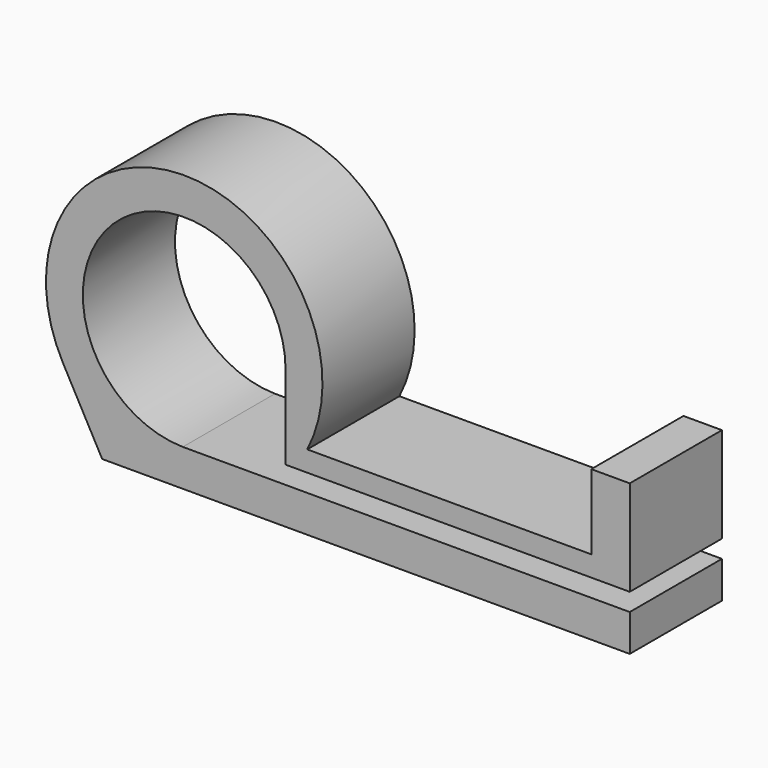
from build123d import *

# Parameters (mm, degrees)
F1_DEPTH = 25


with BuildPart() as f1:
    # F0 (on Front) → F1 (new body)
    with BuildSketch(Plane.XZ):
        with BuildLine():
            Line((51.948939, 20.420613), (-9.68959, 20.420613))
            ThreePointArc((-9.68959, 20.420613), (-36.774845, 64.108047), (-62.712273, 19.729531))
            Line((-62.712273, 19.729531), (-54.180921, 4.110595))
            Line((-54.180921, 4.110595), (60.295311, 4.110595))
            Line((60.295311, 4.110595), (60.295311, 12.112691))
            Line((60.295311, 12.112691), (-36.080195, 12.112691))
            ThreePointArc((-36.080195, 12.112691), (-36.383867, 12.110595), (-36.687538, 12.112691))
            ThreePointArc((-36.687538, 12.112691), (-51.832479, 49.773941), (-14.383867, 34.110595))
            Line((-14.383867, 34.110595), (-14.383867, 15.97322))
            Line((-14.383867, 15.97322), (60.295311, 15.97322))
            Line((60.295311, 15.97322), (60.295311, 20.420613))
            Line((60.295311, 20.420613), (60.295311, 36.695234))
            Line((60.295311, 36.695234), (51.948939, 36.695234))
            Line((51.948939, 36.695234), (51.948939, 20.420613))
        make_face()
        with BuildLine():
            ThreePointArc((-36.687538, 12.112691), (-36.383867, 12.110595), (-36.080195, 12.112691))
            Line((-36.080195, 12.112691), (-36.687538, 12.112691))
        make_face()
    extrude(amount=F1_DEPTH)


solid = f1.part
